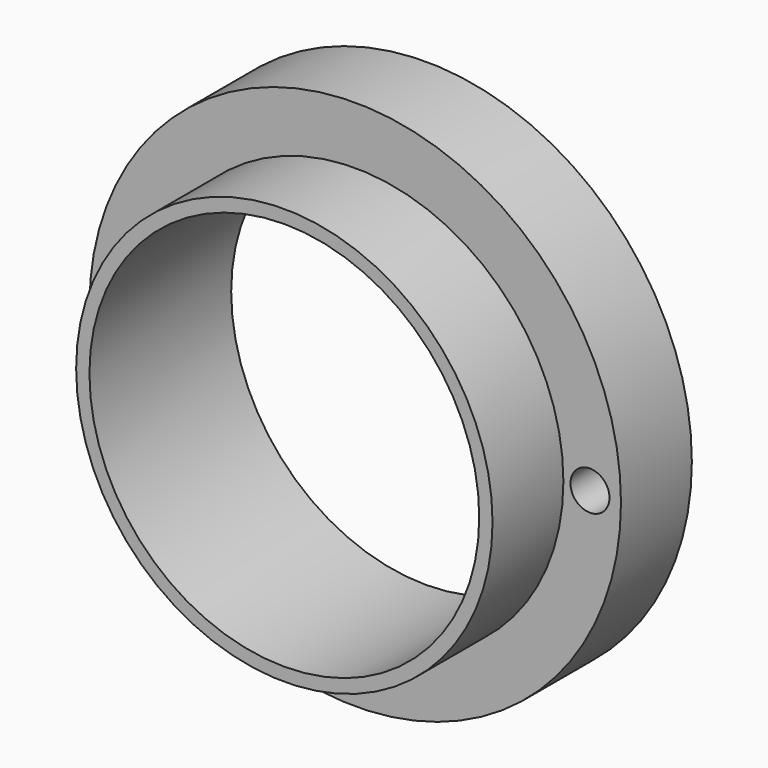
from build123d import *

# Parameters (mm, degrees)
F0_R     = 15
F2_DEPTH = 5
F1_R     = 1.1
F3_DEPTH = 5
F4_DEPTH = 5
F5_R     = 11.75
F6_DEPTH = 5
F7_R     = 11
F8_DEPTH = 10


with BuildPart() as f2:
    # F0 (on Front) → F2 (new body)
    with BuildSketch(Plane.XZ):
        Circle(F0_R)
    extrude(amount=-F2_DEPTH)

    # F1 (on Front) → F3 (cut)
    with BuildSketch(Plane.XZ):
        with Locations((-13.25, 0)):
            Circle(F1_R)
    extrude(amount=-F3_DEPTH, mode=Mode.SUBTRACT)

    # F1 (on Front) → F4 (cut)
    with BuildSketch(Plane.XZ):
        with Locations((-13.25, 0)):
            Circle(F1_R)
        with Locations((13.25, 0.028307)):
            Circle(F1_R)
    extrude(amount=-F4_DEPTH, mode=Mode.SUBTRACT)

    # F5 (on face) → F6 (join)
    with BuildSketch(Plane.XZ):
        Circle(F5_R)
    extrude(amount=F6_DEPTH)

    # F7 (on face) → F8 (cut)
    with BuildSketch(Plane.XZ.offset(5)):
        Circle(F7_R)
    extrude(amount=-F8_DEPTH, mode=Mode.SUBTRACT)


solid = f2.part
